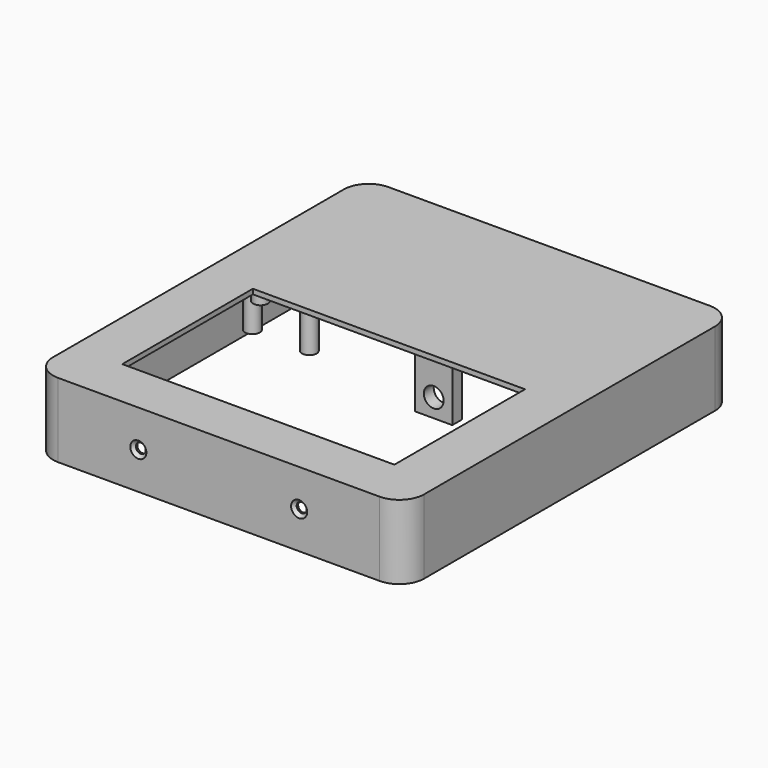
from build123d import *

# Parameters (mm, degrees)
PAD_DEPTH           = 30
POCKET_DEPTH        = 26
SKETCH002_W         = 110
SKETCH002_H         = 66
POCKET001_DEPTH     = 5
SKETCH003_W         = 121
SKETCH003_H         = 78
POCKET002_DEPTH     = 2
SKETCH004_R         = 3
PAD001_DEPTH        = 4
SKETCH005_R         = 1.6
POCKET003_DEPTH     = 6
SKETCH006_R         = 3
PAD002_DEPTH        = 18
SKETCH007_R         = 1.3
POCKET004_DEPTH     = 8
SKETCH008_R         = 3
PAD003_DEPTH        = 1
SKETCH009_R         = 1
PAD004_DEPTH        = 2
SKETCH010_R         = 3
PAD005_DEPTH        = 9
SKETCH011_R         = 1.3
POCKET005_DEPTH     = 8
HOLE_D              = 4
HOLE_DEPTH          = 23.798279
HOLE_CSINK_D        = 6.5
HOLE_CSINK_ANGLE    = 90
HOLE_TIPS_R         = 2
HOLE001_D           = 4
HOLE001_DEPTH       = 23.798279
HOLE001_CSINK_D     = 6.5
HOLE001_CSINK_ANGLE = 90
HOLE001_TIPS_R      = 2
SKETCH014_R         = 4
POCKET006_DEPTH     = 5
SKETCH015_W         = 15
SKETCH015_H         = 5
PAD006_DEPTH        = 23
SKETCH016_R         = 4
POCKET007_DEPTH     = 5


with BuildPart() as part:
    # Sketch001 → Pad (new body)
    with BuildSketch(Plane.XY):
        with BuildLine():
            Line((10, 167), (140, 167))
            ThreePointArc((150, 157), (147.071068, 164.071068), (140, 167))
            Line((150, 157), (150, 10))
            ThreePointArc((140, 0), (147.071068, 2.928932), (150, 10))
            Line((140, 0), (10, 0))
            ThreePointArc((0, 10), (2.928932, 2.928932), (10, 0))
            Line((0, 10), (0, 157))
            ThreePointArc((10, 167), (2.928932, 164.071068), (0, 157))
        make_face()
    extrude(amount=PAD_DEPTH)

    # Sketch (on Face9 of Pad) → Pocket (cut)
    with BuildSketch(Plane(origin=(0, 0, 0), x_dir=(1, 0, 0), z_dir=(0, 0, -1))):
        with BuildLine():
            Line((9.999987, -2), (139.999987, -2))
            ThreePointArc((148, -10.000013), (145.65685, -4.34315), (139.999987, -2))
            Line((148, -10.000013), (148, -157.000013))
            ThreePointArc((140.000013, -165), (145.656858, -162.656858), (148, -157.000013))
            Line((140.000013, -165), (10.000013, -165))
            ThreePointArc((2, -156.999987), (4.34315, -162.65685), (10.000013, -165))
            Line((2, -156.999987), (2, -9.999987))
            ThreePointArc((9.999987, -2), (4.343142, -4.343142), (2, -9.999987))
        make_face()
    extrude(amount=-POCKET_DEPTH, mode=Mode.SUBTRACT)

    # Sketch002 (on Face19 of Pocket) → Pocket001 (cut)
    with BuildSketch(Plane(origin=(0, 0, 26), x_dir=(1, 0, 0), z_dir=(0, 0, -1))):
        with Locations((75, -53)):
            Rectangle(SKETCH002_W, SKETCH002_H)
    extrude(amount=-POCKET001_DEPTH, mode=Mode.SUBTRACT)

    # Sketch003 (on Face23 of Pocket001) → Pocket002 (cut)
    with BuildSketch(Plane(origin=(0, 0, 26), x_dir=(1, 0, 0), z_dir=(0, 0, -1))):
        with Locations((75, -51)):
            Rectangle(SKETCH003_W, SKETCH003_H)
    extrude(amount=-POCKET002_DEPTH, mode=Mode.SUBTRACT)

    # Sketch004 (on Face23 of Pocket002) → Pad001 (join)
    with BuildSketch(Plane(origin=(0, 0, 26), x_dir=(1, 0, 0), z_dir=(0, 0, -1))):
        with Locations((17.5, -9)):
            Circle(SKETCH004_R)
        with Locations((132.5, -9)):
            Circle(SKETCH004_R)
        with Locations((132.5, -93)):
            Circle(SKETCH004_R)
        with Locations((17.5, -93)):
            Circle(SKETCH004_R)
    extrude(amount=PAD001_DEPTH)

    # Sketch005 (on Face36 of Pad001) → Pocket003 (cut)
    with BuildSketch(Plane(origin=(0, 0, 22), x_dir=(1, 0, 0), z_dir=(0, 0, -1))):
        with Locations((17.5, -9)):
            Circle(SKETCH005_R)
        with Locations((132.5, -9)):
            Circle(SKETCH005_R)
        with Locations((17.5, -93)):
            Circle(SKETCH005_R)
        with Locations((132.5, -93)):
            Circle(SKETCH005_R)
    extrude(amount=-POCKET003_DEPTH, mode=Mode.SUBTRACT)

    # Sketch006 (on Face23 of Pocket003) → Pad002 (join)
    with BuildSketch(Plane(origin=(0, 0, 26), x_dir=(1, 0, 0), z_dir=(0, 0, -1))):
        with Locations((11, -97)):
            Circle(SKETCH006_R)
        with Locations((34, -97)):
            Circle(SKETCH006_R)
        with Locations((11, -155)):
            Circle(SKETCH006_R)
        with Locations((34, -155)):
            Circle(SKETCH006_R)
        with Locations((125, -114)):
            Circle(SKETCH006_R)
        with Locations((141, -144.565503)):
            Circle(SKETCH006_R)
    extrude(amount=PAD002_DEPTH)

    # Sketch007 (on Face39 of Pad002) → Pocket004 (cut)
    with BuildSketch(Plane(origin=(0, 0, 8), x_dir=(1, 0, 0), z_dir=(0, 0, -1))):
        with Locations((11, -97)):
            Circle(SKETCH007_R)
        with Locations((34, -97)):
            Circle(SKETCH007_R)
        with Locations((11, -155)):
            Circle(SKETCH007_R)
        with Locations((34, -155)):
            Circle(SKETCH007_R)
        with Locations((125, -114)):
            Circle(SKETCH007_R)
        with Locations((141, -144.565503)):
            Circle(SKETCH007_R)
    extrude(amount=-POCKET004_DEPTH, mode=Mode.SUBTRACT)

    # Sketch008 (on Face23 of Pocket004) → Pad003 (join)
    with BuildSketch(Plane(origin=(0, 0, 26), x_dir=(1, 0, 0), z_dir=(0, 0, -1))):
        with Locations((62.5, -109)):
            Circle(SKETCH008_R)
        with Locations((87.5, -109)):
            Circle(SKETCH008_R)
        with Locations((57.5, -146)):
            Circle(SKETCH008_R)
        with Locations((92.5, -146)):
            Circle(SKETCH008_R)
    extrude(amount=PAD003_DEPTH)

    # Sketch009 (on Face46 of Pad003) → Pad004 (join)
    with BuildSketch(Plane(origin=(0, 0, 25), x_dir=(1, 0, 0), z_dir=(0, 0, -1))):
        with Locations((62.5, -109)):
            Circle(SKETCH009_R)
        with Locations((92.5, -146)):
            Circle(SKETCH009_R)
        with Locations((87.5, -109)):
            Circle(SKETCH009_R)
        with Locations((57.5, -146)):
            Circle(SKETCH009_R)
    extrude(amount=PAD004_DEPTH)

    # Sketch010 (on Face23 of Pad004) → Pad005 (join)
    with BuildSketch(Plane(origin=(0, 0, 26), x_dir=(1, 0, 0), z_dir=(0, 0, -1))):
        with Locations((50, -125)):
            Circle(SKETCH010_R)
        with Locations((100, -125)):
            Circle(SKETCH010_R)
    extrude(amount=PAD005_DEPTH)

    # Sketch011 (on Face53 of Pad005) → Pocket005 (cut)
    with BuildSketch(Plane(origin=(0, 0, 17), x_dir=(1, 0, 0), z_dir=(0, 0, -1))):
        with Locations((100, -125)):
            Circle(SKETCH011_R)
        with Locations((50, -125)):
            Circle(SKETCH011_R)
    extrude(amount=-POCKET005_DEPTH, mode=Mode.SUBTRACT)

    # Hole
    with Locations(Plane(origin=(0, 167, 0), x_dir=(-1, 0, 0), z_dir=(0, 1, 0))):
        with Locations((-47.5, 15), (-102.5, 15)):
            CounterSinkHole(HOLE_D / 2, HOLE_CSINK_D / 2, depth=HOLE_DEPTH, counter_sink_angle=HOLE_CSINK_ANGLE)

    # Hole tips → Hole tip 1 section 0
    with BuildSketch(Plane(origin=(0, 143.201721, 0), x_dir=(-1, 0, 0), z_dir=(0, 1, 0)), mode=Mode.PRIVATE) as hole_tip_1_s0:
        with Locations((-47.5, 15)):
            Circle(HOLE_TIPS_R)
    loft([hole_tip_1_s0.sketch, Vertex(47.5, 142, 15)], mode=Mode.SUBTRACT)

    # Hole tips → Hole tip 2 section 0
    with BuildSketch(Plane(origin=(0, 143.201721, 0), x_dir=(-1, 0, 0), z_dir=(0, 1, 0)), mode=Mode.PRIVATE) as hole_tip_2_s0:
        with Locations((-102.5, 15)):
            Circle(HOLE_TIPS_R)
    loft([hole_tip_2_s0.sketch, Vertex(102.5, 142, 15)], mode=Mode.SUBTRACT)

    # Hole001
    with Locations(Plane.XZ):
        with Locations((42.5, 15), (107.5, 15)):
            CounterSinkHole(HOLE001_D / 2, HOLE001_CSINK_D / 2, depth=HOLE001_DEPTH, counter_sink_angle=HOLE001_CSINK_ANGLE)

    # Hole001 tips → Hole001 tip 1 section 0
    with BuildSketch(Plane.XZ.offset(-23.798279), mode=Mode.PRIVATE) as hole001_tip_1_s0:
        with Locations((42.5, 15)):
            Circle(HOLE001_TIPS_R)
    loft([hole001_tip_1_s0.sketch, Vertex(42.5, 25, 15)], mode=Mode.SUBTRACT)

    # Hole001 tips → Hole001 tip 2 section 0
    with BuildSketch(Plane.XZ.offset(-23.798279), mode=Mode.PRIVATE) as hole001_tip_2_s0:
        with Locations((107.5, 15)):
            Circle(HOLE001_TIPS_R)
    loft([hole001_tip_2_s0.sketch, Vertex(107.5, 25, 15)], mode=Mode.SUBTRACT)

    # Sketch014 (on Face7 of Hole001) → Pocket006 (cut)
    with BuildSketch(Plane(origin=(0, 167, 0), x_dir=(-1, 0, 0), z_dir=(0, 1, 0))):
        with Locations((-75, 7)):
            Circle(SKETCH014_R)
    extrude(amount=-POCKET006_DEPTH, mode=Mode.SUBTRACT)

    # Sketch015 (on Face28 of Pocket006) → Pad006 (join)
    with BuildSketch(Plane(origin=(0, 0, 26), x_dir=(1, 0, 0), z_dir=(0, 0, -1))):
        with Locations((87.5, -95.5)):
            Rectangle(SKETCH015_W, SKETCH015_H)
    extrude(amount=PAD006_DEPTH)

    # Sketch016 (on Face39 of Pad006) → Pocket007 (cut)
    with BuildSketch(Plane(origin=(0, 98, 0), x_dir=(-1, 0, 0), z_dir=(0, 1, 0))):
        with Locations((-87.5, 10.5)):
            Circle(SKETCH016_R)
    extrude(amount=-POCKET007_DEPTH, mode=Mode.SUBTRACT)


solid = part.part
